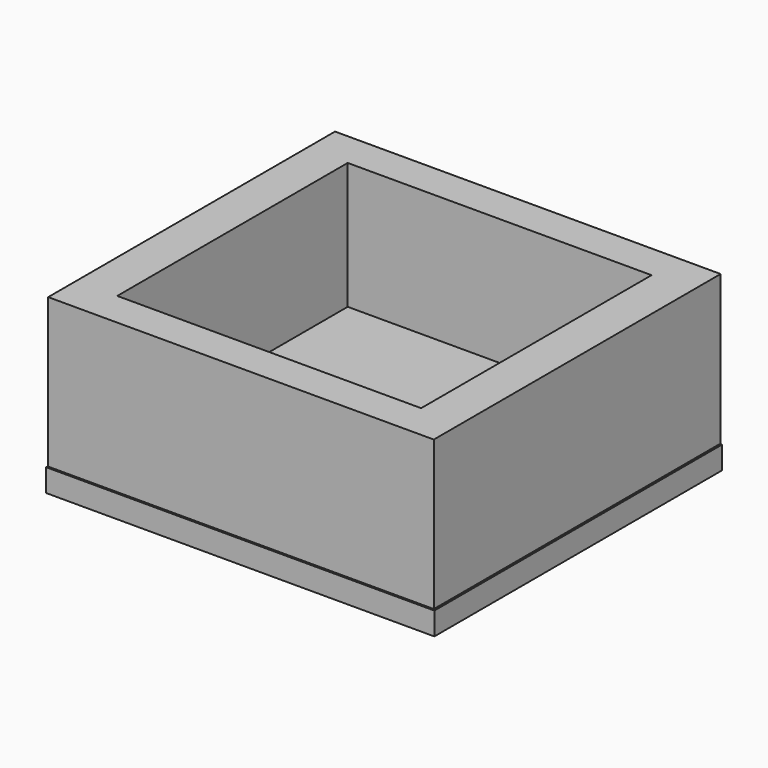
from build123d import *

# Parameters (mm, degrees)
F0_W     = 58.305382
F0_H     = 54.213792
F0_W_2   = 45.94864
F0_H_2   = 43.553084
F1_DEPTH = 22.560567
F2_DEPTH = 3.407711
F3_W     = 58.710366
F3_H     = 54.353766
F4_DEPTH = 3.438855


with BuildPart() as f1:
    # F0 (on Top) → F1 (new body)
    with BuildSketch(Plane.XY):
        Rectangle(F0_W, F0_H)
        Rectangle(F0_W_2, F0_H_2, mode=Mode.SUBTRACT)
    extrude(amount=F1_DEPTH)

    # F0 (on Top) → F2 (join)
    with BuildSketch(Plane.XY):
        Rectangle(F0_W_2, F0_H_2)
    extrude(amount=F2_DEPTH)


with BuildPart() as f4:
    # F3 (on Top) → F4 (new body)
    with BuildSketch(Plane.XY):
        with Locations((0.103697, -0.207443)):
            Rectangle(F3_W, F3_H)
    extrude(amount=-F4_DEPTH)


solid = Compound([f1.part, f4.part])
